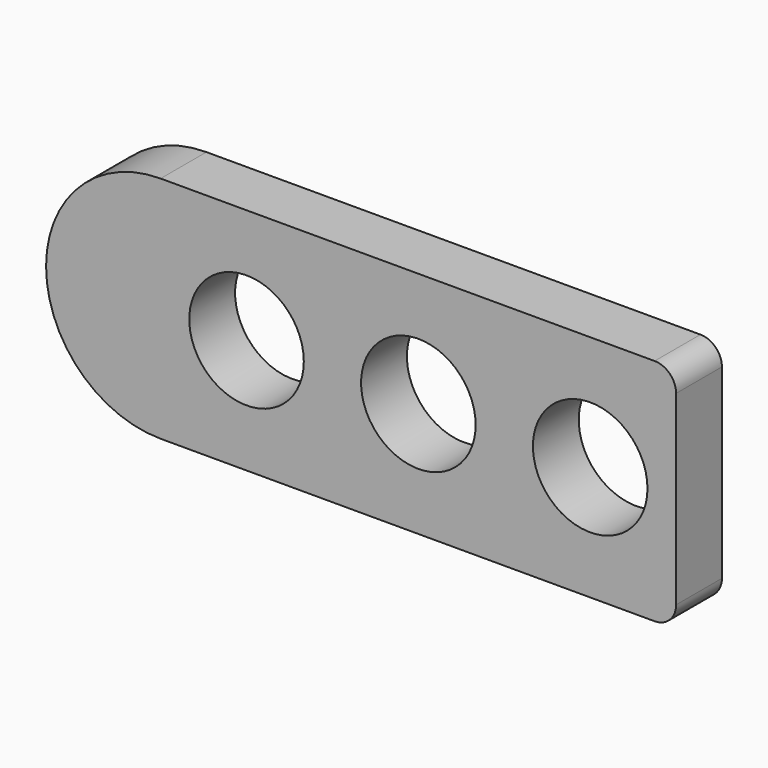
from build123d import *

# Parameters (mm, degrees)
F0_R     = 40
F1_DEPTH = 40
F2_R     = 15


with BuildPart() as f1:
    # F0 (on Front) → F1 (new body)
    with BuildSketch(Plane.XZ):
        with BuildLine():
            Line((-180, -80), (-20, -80))
            Line((-20, -80), (180, -80))
            Line((180, -80), (180, 80))
            Line((180, 80), (120, 80))
            Line((120, 80), (0, 80))
            Line((0, 80), (-180, 80))
            ThreePointArc((-180, 80), (-260, 0), (-180, -80))
        make_face()
        with Locations((-120, 0)):
            Circle(F0_R, mode=Mode.SUBTRACT)
        Circle(F0_R, mode=Mode.SUBTRACT)
        with Locations((120, 0)):
            Circle(F0_R, mode=Mode.SUBTRACT)
    extrude(amount=F1_DEPTH)

    # F2
    f2_edges = [f1.edges().sort_by_distance(p)[0] for p in [
        (180, -20, 80),
        (180, -20, -80),
    ]]
    fillet(f2_edges, radius=F2_R)


solid = f1.part
